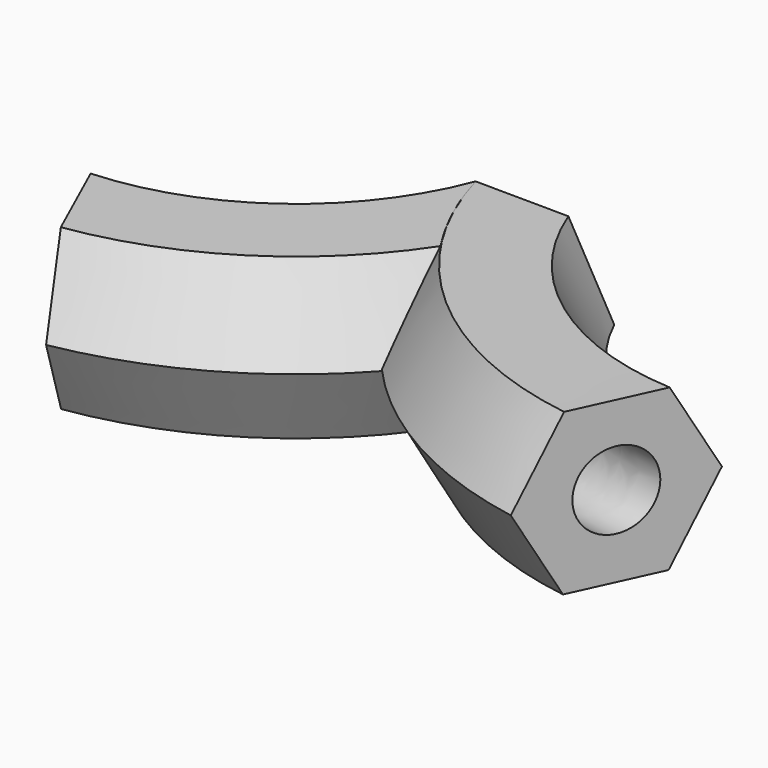
from build123d import *

# Parameters (mm, degrees)
F4_R = 12.7


with BuildPart() as f2:
    # F2: sweep along a path in F1
    with BuildLine(Plane.XY) as f2_path:
        ThreePointArc((-88.857807219, -72.1131786704), (-33.770108767, -49.1903487224), (0, 0))
    # F0 (on Front) → F2 (sweep)
    with BuildSketch(Plane.XZ):
        Polygon((-30.4794730405, 27.0658959038), (-15.3949537232, 0.5802832628), (15.0845193173, 0.401053875), (30.4794730405, 26.7074371281), (15.3949537232, 53.193049769), (-15.0845193173, 53.3722791569), align=None)
    sweep(path=f2_path.line)

    # F3: sweep along a path in F1
    with BuildLine(Plane.XY) as f3_path:
        ThreePointArc((88.857807219, -72.1131786704), (33.770108767, -49.1903487224), (0, 0))
    # F0 (on Front) → F3 (sweep)
    with BuildSketch(Plane.XZ):
        Polygon((-30.4794730405, 27.0658959038), (-15.3949537232, 0.5802832628), (15.0845193173, 0.401053875), (30.4794730405, 26.7074371281), (15.3949537232, 53.193049769), (-15.0845193173, 53.3722791569), align=None)
    sweep(path=f3_path.line)

    # F5: sweep along a path in F1
    with BuildLine(Plane.XY) as f5_path:
        ThreePointArc((88.857807219, -72.1131786704), (33.770108767, -49.1903487224), (0, 0))
    # F4 (on face) → F5 (sweep, cut)
    with BuildSketch(Plane.XZ):
        with Locations((0, 27.1857556261)):
            Circle(F4_R)
    sweep(path=f5_path.line, mode=Mode.SUBTRACT)


solid = f2.part
